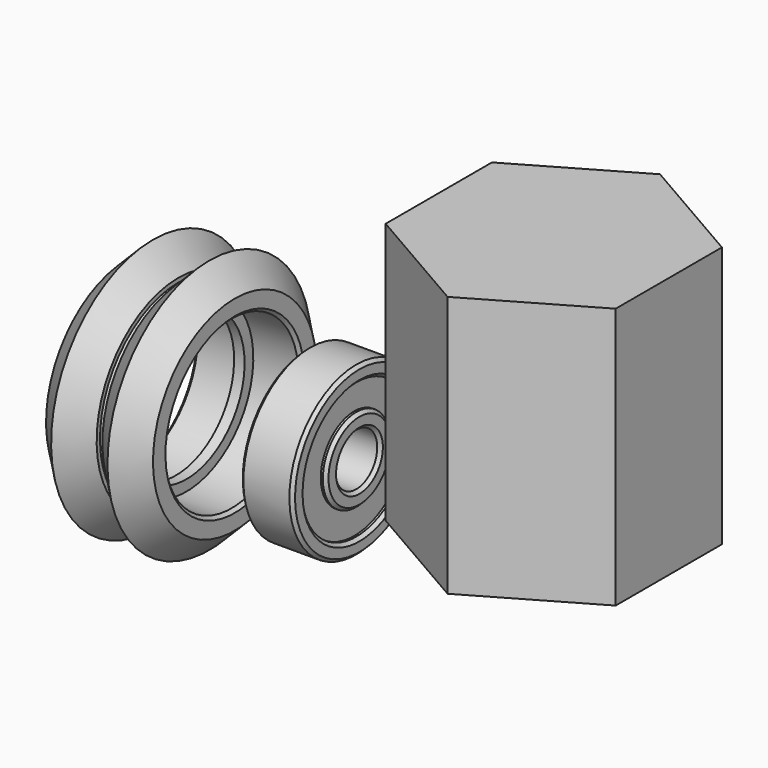
from build123d import *

# Parameters (mm, degrees)
F4_SIZE  = 0.3
F6_DEPTH = 25


with BuildPart() as f1:
    # F0 (on Front) → F1 (revolve)
    with BuildSketch(Plane.XZ):
        Polygon((-0.5, 6.945), (0, 6.945), (0.5, 6.945), (0.5, 7.987), (4.815, 7.987), (5.115, 8.287), (5.115, 9.775), (2.695, 12.195), (0.275, 9.775), (0.275, 9.375), (0, 9.375), (-0.275, 9.375), (-0.275, 9.775), (-2.695, 12.195), (-5.115, 9.775), (-5.115, 8.287), (-4.815, 7.987), (-0.5, 7.987), align=None)
    revolve(axis=Axis((0, 0, 0), (1, 0, 0)))


with BuildPart() as f3:
    # F2 (on Front) → F3 (revolve)
    with BuildSketch(Plane.XZ):
        Polygon((14.542001, 2.5), (17.042001, 2.5), (17.042001, 4), (16.542001, 4), (16.542001, 6.5), (17.042001, 6.5), (17.042001, 8), (14.542001, 8), (12.042001, 8), (12.042001, 6.5), (12.542001, 6.5), (12.542001, 4), (12.042001, 4), (12.042001, 2.5), align=None)
    revolve(axis=Axis((14.613577, 0, 0), (1, 0, 0)))

    # F4
    f4_edges = [f3.edges().sort_by_distance(p)[0] for p in [
        (12.042001, 0, -8),
        (17.042001, 0, -8),
        (17.042001, 0, -4),
        (17.042001, 0, -2.5),
        (12.042001, 0, -2.5),
        (12.042001, 0, -4),
        (12.042001, 0, -6.5),
        (17.042001, 0, -6.5),
    ]]
    chamfer(f4_edges, length=F4_SIZE)


with BuildPart() as f6:
    # F5 (on Top) → F6 (new body)
    with BuildSketch(Plane.XY):
        Polygon((35.631485, -12.701706), (46.631485, -6.350853), (46.631485, 6.350853), (35.631485, 12.701706), (24.631485, 6.350853), (24.631485, -6.350853), align=None)
    extrude(amount=F6_DEPTH)


solid = Compound([f1.part, f3.part, f6.part])
